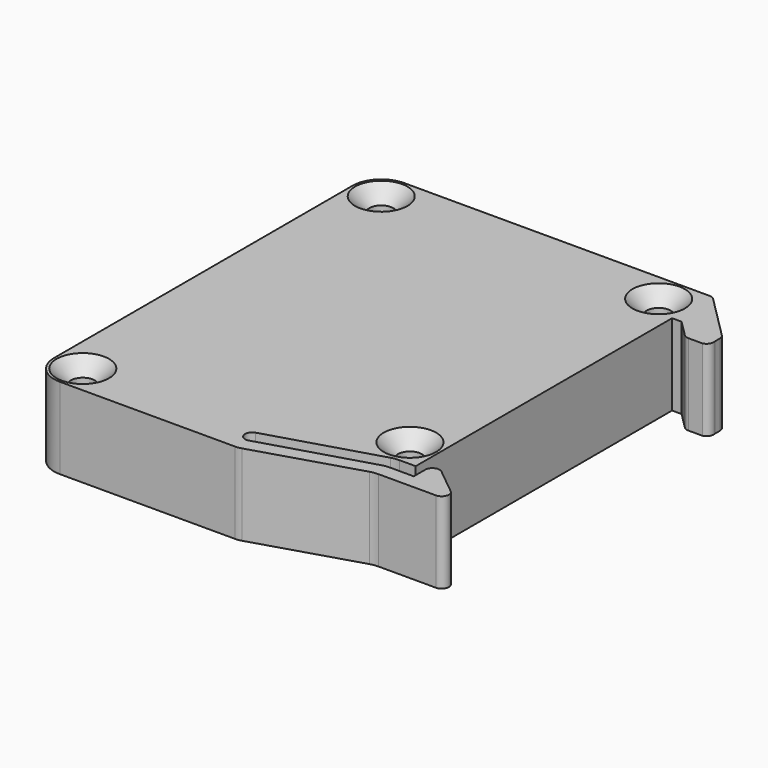
from build123d import *

# Parameters (mm, degrees)
CYLINDER001001_R              = 1.75
CYLINDER001001_DEPTH          = 20
CYLINDER001001_PITCH_ANGLE    = 90
CYLINDER001001001_R           = 0.75
CYLINDER001001001_DEPTH       = 28
CYLINDER001001001_PITCH_ANGLE = 90
CYLINDER002001_R              = 2.75
CYLINDER002001_DEPTH          = 15
CYLINDER002001_PITCH_ANGLE    = 90
CYLINDER001_R                 = 2
CYLINDER001_DEPTH             = 30
CYLINDER001_PITCH_ANGLE       = 90
CYLINDER002_R                 = 2.85
CYLINDER002_DEPTH             = 15
CYLINDER002_PITCH_ANGLE       = 90
BOX_W                         = 3
BOX_H                         = 10
BOX_DEPTH                     = 10
PAD_DEPTH                     = 8.5
POCKET_DEPTH                  = 7.5
SKETCH003_R                   = 1.25
POCKET002_DEPTH               = 8.501
CHAMFER_SIZE                  = 1.49


with BuildPart() as cylinder001001:
    # Cylinder001001 → Cylinder001001 (new body)
    with BuildSketch(Plane.XY):
        Circle(CYLINDER001001_R)
    extrude(amount=CYLINDER001001_DEPTH)


with BuildPart() as cylinder001001_1:
    # Cylinder001001 pitch: moved
    add(cylinder001001.part.rotate(Axis((0, 0, 0), (0, 1, 0)), CYLINDER001001_PITCH_ANGLE))


with BuildPart() as cylinder001001_2:
    # Cylinder001001 placement: moved
    add(cylinder001001_1.part.moved(Location((-35.5, 9.5, 8.5))))


with BuildPart() as fusion001:
    # Cylinder001001001 → Cylinder001001001 (new body)
    with BuildSketch(Plane.XY):
        Circle(CYLINDER001001001_R)
    extrude(amount=CYLINDER001001001_DEPTH)


with BuildPart() as fusion001_1:
    # Cylinder001001001 pitch: moved
    add(fusion001.part.rotate(Axis((0, 0, 0), (0, 1, 0)), CYLINDER001001001_PITCH_ANGLE))


with BuildPart() as fusion001_2:
    # Cylinder001001001 placement: moved
    add(fusion001_1.part.moved(Location((-35.5, 9.5, 8.5))))

    # Fusion001: union Cylinder001001
    add(cylinder001001_2.part)


with BuildPart() as conductor:
    # Cylinder002001 → Cylinder002001 (new body)
    with BuildSketch(Plane.XY):
        Circle(CYLINDER002001_R)
    extrude(amount=CYLINDER002001_DEPTH)


with BuildPart() as conductor_1:
    # Cylinder002001 pitch: moved
    add(conductor.part.rotate(Axis((0, 0, 0), (0, 1, 0)), CYLINDER002001_PITCH_ANGLE))


with BuildPart() as conductor_2:
    # Cylinder002001 placement: moved
    add(conductor_1.part.moved(Location((-25.5, 9.5, 8.5))))

    # Cut001: cut Fusion001
    add(fusion001_2.part, mode=Mode.SUBTRACT)


with BuildPart() as part_mirroring003:
    # Part__Mirroring003: instance of conductor
    add(conductor_2.part.mirror(Plane(origin=(0, 0, 0), x_dir=(1, 0, 0), z_dir=(0, 1, 0))))


with BuildPart() as cylinder001:
    # Cylinder001 → Cylinder001 (new body)
    with BuildSketch(Plane.XY):
        Circle(CYLINDER001_R)
    extrude(amount=CYLINDER001_DEPTH)


with BuildPart() as cylinder001_1:
    # Cylinder001 pitch: moved
    add(cylinder001.part.rotate(Axis((0, 0, 0), (0, 1, 0)), CYLINDER001_PITCH_ANGLE))


with BuildPart() as cylinder001_2:
    # Cylinder001 placement: moved
    add(cylinder001_1.part.moved(Location((-35.5, 9.5, 8.5))))


with BuildPart() as part_mirroring001:
    # Part__Mirroring001: instance of Cylinder001
    add(cylinder001_2.part.mirror(Plane(origin=(0, 0, 0), x_dir=(1, 0, 0), z_dir=(0, 1, 0))))


with BuildPart() as cylinder002:
    # Cylinder002 → Cylinder002 (new body)
    with BuildSketch(Plane.XY):
        Circle(CYLINDER002_R)
    extrude(amount=CYLINDER002_DEPTH)


with BuildPart() as cylinder002_1:
    # Cylinder002 pitch: moved
    add(cylinder002.part.rotate(Axis((0, 0, 0), (0, 1, 0)), CYLINDER002_PITCH_ANGLE))


with BuildPart() as cylinder002_2:
    # Cylinder002 placement: moved
    add(cylinder002_1.part.moved(Location((-25.5, 9.5, 8.5))))


with BuildPart() as box:
    # Box → Box (new body)
    with BuildSketch(Plane(origin=(-9, 14, 4), x_dir=(1, 0, 0), z_dir=(0, 0, 1))):
        with Locations((1.5, 5)):
            Rectangle(BOX_W, BOX_H)
    extrude(amount=BOX_DEPTH)


with BuildPart() as cuts:
    # Part__Mirroring002: instance of Cylinder002
    add(cylinder002_2.part.mirror(Plane(origin=(0, 0, 0), x_dir=(1, 0, 0), z_dir=(0, 1, 0))))

    # Fusion: union Part__Mirroring001, Cylinder002, Cylinder001, Box
    add(part_mirroring001.part)
    add(cylinder002_2.part)
    add(cylinder001_2.part)
    add(box.part)


with BuildPart() as half_socket:
    # Sketch → Pad (new body)
    with BuildSketch(Plane(origin=(-3, 0, 0), x_dir=(1, 0, 0), z_dir=(0, 0, 1))):
        with BuildLine():
            Line((2.94482, 22.5), (-29.000021, 22.5))
            ThreePointArc((-29.000021, 22.5), (-31.121335, 21.621305), (-32, 19.499979))
            Line((-32, -19.500021), (-32, 19.499979))
            ThreePointArc((-32, -19.500021), (-31.12132, -21.62132), (-29.000021, -22.5))
            Line((-29.000021, -22.5), (-10.683676, -22.5))
            ThreePointArc((-10.683676, -22.5), (-10.350559, -22.475205), (-10.024784, -22.401365))
            Line((0.651894, -19.131512), (-10.024784, -22.401365))
            ThreePointArc((1.530401, -19), (1.086253, -19.03306), (0.651894, -19.131512))
            Line((1.530401, -19), (7.51862, -19))
            ThreePointArc((7.51862, -19), (8.225382, -18.500972), (7.991627, -17.667966))
            Line((7.991627, -17.667966), (5.223007, -15.417966))
            ThreePointArc((5.223007, -15.417966), (4.427708, -15.322779), (4, -16))
            Line((4, -16), (4, -17.5))
            Line((4, -17.5), (1.537847, -17.5))
            ThreePointArc((1.537847, -17.5), (1.102376, -17.531774), (0.67613, -17.626423))
            Line((-10.468246, -20.968356), (0.67613, -17.626423))
            ThreePointArc((-10.899105, -19.531567), (-11.40207, -20.465391), (-10.468246, -20.968356))
            Line((0.456064, -16.126423), (-10.899105, -19.531567))
            ThreePointArc((1.317781, -16), (0.88231, -16.031774), (0.456064, -16.126423))
            Line((1.317781, -16), (3, -16))
            Line((3, -16), (3, 17.5))
            Line((3, 17.5), (4, 17.5))
            Line((4, 17.5), (5.68519, 15.814809))
            ThreePointArc((5.68519, 15.814809), (5.936374, 15.634311), (6.239038, 15.570528))
            Line((6.239038, 15.570528), (7.71675, 15.570528))
            ThreePointArc((7.71675, 15.570528), (8.191728, 15.90414), (8.286394, 16.476799))
            Line((8.286394, 16.476799), (8.286394, 17.145584))
            ThreePointArc((8.286394, 17.145584), (8.229304, 17.432597), (8.066724, 17.675914))
            Line((3.453236, 22.289407), (8.066724, 17.675914))
            ThreePointArc((3.453236, 22.289407), (3.219973, 22.445269), (2.94482, 22.5))
        make_face()
    extrude(amount=PAD_DEPTH)

    # Sketch002001 → Pocket (cut)
    with BuildSketch(Plane(origin=(-3, 0, 8.5), x_dir=(1, 0, 0), z_dir=(0, 0, 1))):
        with BuildLine():
            Line((1.5, 16.901924), (1.5, -10.404927))
            ThreePointArc((1.5, -10.404927), (-2.493641, -11.324408), (-1.843661, -15.370659))
            Line((-6, -16.627433), (-1.843661, -15.370659))
            Line((-6, -3), (-6, -16.627433))
            Line((-9, -3), (-6, -3))
            Line((-9, -17.53456), (-9, -3))
            Line((-15.5, -19.5), (-9, -17.53456))
            Line((-21, -19.5), (-15.5, -19.5))
            Line((-21, -3), (-21, -19.5))
            Line((-24, -3), (-21, -3))
            Line((-24, -19.5), (-24, -3))
            Line((-26, -19.5), (-24, -19.5))
            ThreePointArc((-26, -19.5), (-27.5, -16.901924), (-30.5, -16.901924))
            Line((-30.5, 16.901924), (-30.5, -16.901924))
            ThreePointArc((-30.5, 16.901924), (-26.87868, 17.37868), (-26.401924, 21))
            Line((-24, 21), (-26.401924, 21))
            Line((-24, 21), (-24, 3))
            Line((-24, 3), (-21, 3))
            Line((-21, 3), (-21, 21))
            Line((-9, 21), (-21, 21))
            Line((-9, 3), (-9, 21))
            Line((-6, 3), (-9, 3))
            Line((-6, 21), (-6, 3))
            Line((-2.598076, 21), (-6, 21))
            ThreePointArc((-2.598076, 21), (-2.12132, 17.37868), (1.5, 16.901924))
        make_face()
    extrude(amount=-POCKET_DEPTH, mode=Mode.SUBTRACT)

    # Sketch003 → Pocket002 (cut, through all)
    with BuildSketch(Plane(origin=(-3, 0, 0), x_dir=(1, 0, 0), z_dir=(0, 0, -1))):
        with Locations((-29, 19.5)):
            Circle(SKETCH003_R)
        with Locations((-29, -19.5)):
            Circle(SKETCH003_R)
        with Locations((0, 13)):
            Circle(SKETCH003_R)
        with Locations((0, -19.5)):
            Circle(SKETCH003_R)
    extrude(amount=-POCKET002_DEPTH, mode=Mode.SUBTRACT)

    # Cut: cut cuts
    add(cuts.part, mode=Mode.SUBTRACT)


with BuildPart() as chamfer_body:
    # Part__Mirroring: instance of half socket
    add(half_socket.part.mirror(Plane(origin=(0, 0, 8.5), x_dir=(0, 1, 0), z_dir=(0, 0, 1))))

    # Chamfer
    chamfer_edges = [chamfer_body.edges().sort_by_distance(p)[0] for p in [
        (-4.25, -13, 17),
        (-4.25, 19.5, 17),
        (-33.25, 19.5, 17),
        (-33.25, -19.5, 17),
    ]]
    chamfer(chamfer_edges, length=CHAMFER_SIZE)


solid = Compound([part_mirroring003.part, chamfer_body.part])
